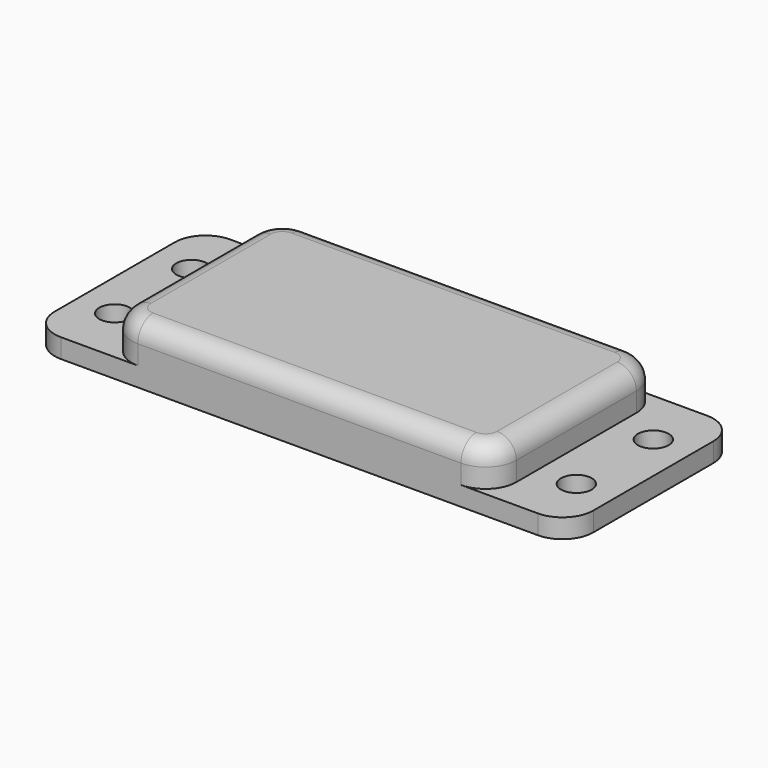
from build123d import *

# Parameters (mm, degrees)
F1_DEPTH = 34.925
F2_R     = 2.54
F3_DEPTH = 25.4
F4_R     = 5.08
F5_R     = 3.175
F6_W     = 50.8
F6_H     = 25.4
F7_DEPTH = 6.4008


with BuildPart() as f1:
    # F0 (on Front) → F1 (new body)
    with BuildSketch(Plane.XZ):
        Polygon((-12.7, 0), (0, 0), (12.7, 0), (44.45, 0), (44.45, 3.175), (31.75, 3.175), (31.75, 9.525), (-31.75, 9.525), (-31.75, 3.175), (-44.45, 3.175), (-44.45, 0), align=None)
    extrude(amount=F1_DEPTH)

    # F2 (on face) → F3 (cut)
    with BuildSketch(Plane(origin=(0, 0, 0), x_dir=(1, 0, 0), z_dir=(0, 0, -1))):
        with Locations((-38.1, 25.4)):
            Circle(F2_R)
        with Locations((-38.1, 9.525)):
            Circle(F2_R)
        with Locations((38.1, 25.4)):
            Circle(F2_R)
        with Locations((38.1, 9.525)):
            Circle(F2_R)
    extrude(amount=-F3_DEPTH, mode=Mode.SUBTRACT)

    # F4
    f4_edges = [f1.edges().sort_by_distance(p)[0] for p in [
        (-44.45, -34.925, 1.5875),
        (44.45, -34.925, 1.5875),
        (44.45, 0, 1.5875),
        (-44.45, 0, 1.5875),
        (31.75, 0, 6.35),
        (-31.75, 0, 6.35),
        (31.75, -34.925, 6.35),
        (-31.75, -34.925, 6.35),
    ]]
    fillet(f4_edges, radius=F4_R)

    # F5
    f5_edges = [f1.edges().sort_by_distance(p)[0] for p in [
        (-30.262102, -33.437102, 9.525),
    ]]
    fillet(f5_edges, radius=F5_R)

    # F6 (on face) → F7 (cut)
    with BuildSketch(Plane(origin=(0, 0, 0), x_dir=(1, 0, 0), z_dir=(0, 0, -1))):
        with Locations((0, 17.4625)):
            Rectangle(F6_W, F6_H)
    extrude(amount=-F7_DEPTH, mode=Mode.SUBTRACT)


solid = f1.part
